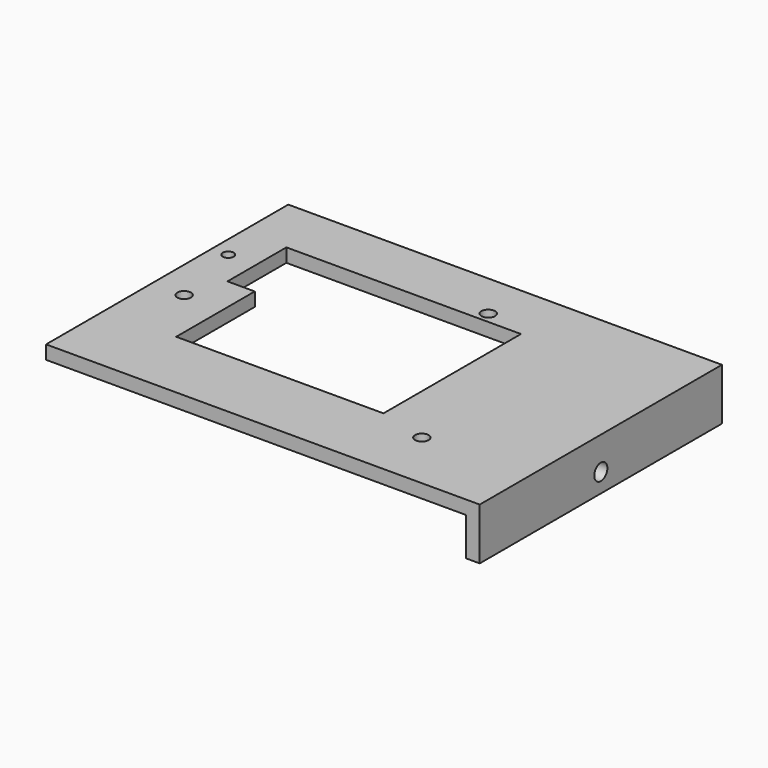
from build123d import *

# Parameters (mm, degrees)
F0_W     = 159
F0_H     = 111
F0_R     = 2.5
F0_R_2   = 2
F1_DEPTH = 5
F2_W     = 5
F2_H     = 111
F3_DEPTH = 19
F4_R     = 3
F5_DEPTH = 5
F6_R     = 6
F7_DEPTH = 2.5


with BuildPart() as f1:
    # F0 (on Top) → F1 (new body)
    with BuildSketch(Plane.XY):
        with Locations((79.5, 55.5)):
            Rectangle(F0_W, F0_H)
        with Locations((11.75, 48.57)):
            Circle(F0_R, mode=Mode.SUBTRACT)
        with Locations((120.12, 22.1)):
            Circle(F0_R, mode=Mode.SUBTRACT)
        with Locations((6, 76)):
            Circle(F0_R_2, mode=Mode.SUBTRACT)
        Polygon((16.15, 62.95), (16.15, 89.95), (102.15, 89.95), (102.15, 26.95), (26.15, 26.95), (26.15, 62.95), align=None, mode=Mode.SUBTRACT)
        with Locations((86.95, 93.97)):
            Circle(F0_R, mode=Mode.SUBTRACT)
    extrude(amount=F1_DEPTH)

    # F2 (on face) → F3 (join)
    with BuildSketch(Plane.XY.offset(5)):
        with Locations((156.5, 55.5)):
            Rectangle(F2_W, F2_H)
    extrude(amount=-F3_DEPTH)

    # F4 (on face) → F5 (cut)
    with BuildSketch(Plane.YZ.offset(159)):
        with Locations((55.5, -7)):
            Circle(F4_R)
    extrude(amount=-F5_DEPTH, mode=Mode.SUBTRACT)

    # F6 (on face) → F7 (cut)
    with BuildSketch(Plane(origin=(0, 0, 0), x_dir=(1, 0, 0), z_dir=(0, 0, -1))):
        with Locations((76.65, -13.63)):
            Circle(F6_R)
        with Locations((130.08, -62.15)):
            Circle(F6_R)
        with Locations((40.11, -99.03)):
            Circle(F6_R)
    extrude(amount=-F7_DEPTH, mode=Mode.SUBTRACT)


solid = f1.part
